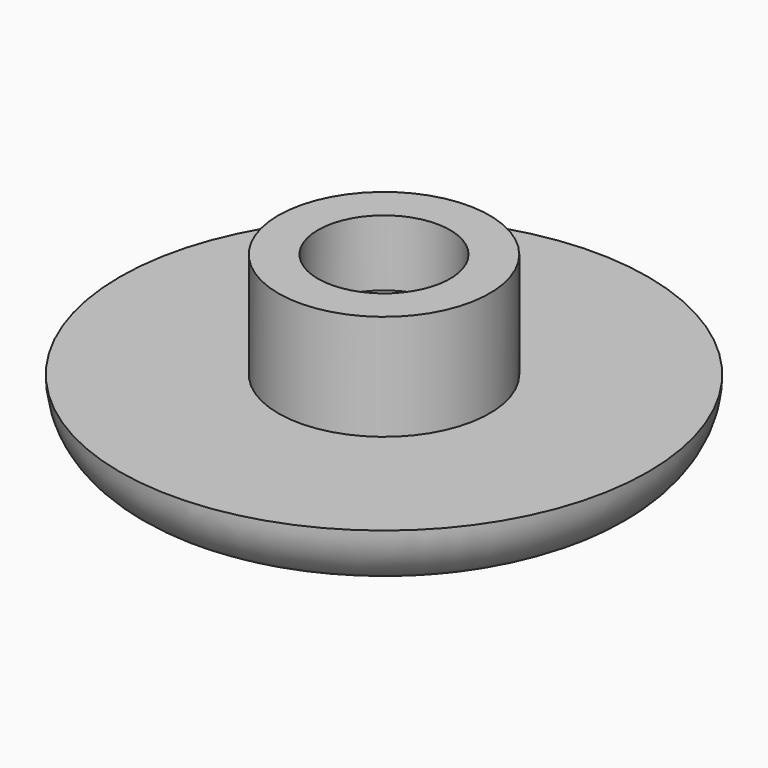
from build123d import *


with BuildPart() as f1:
    # F0 (on Front) → F1 (revolve)
    with BuildSketch(Plane.XZ):
        with BuildLine():
            Line((0, -2), (-4, -2))
            Line((-4, -2), (-10, -2))
            ThreePointArc((-10, -2), (-9.267767, -3.767767), (-7.5, -4.5))
            add(Edge.make_bspline(
                [(-7.5, -4.5), (-7.166894, -3.767685), (-3.670442, -4), (0, -4)],
                knots=[0, 0, 0, 0, 7.516648, 7.516648, 7.516648, 7.516648], degree=3))
            Line((0, -4), (0, -2))
        make_face()
        Polygon((-2.5, 2), (-4, 2), (-4, -2), (0, -2), (0, -0.5), (-2.5, -0.5), align=None)
    revolve(axis=Axis((0, 0, -3), (0, 0, -1)))


solid = f1.part
